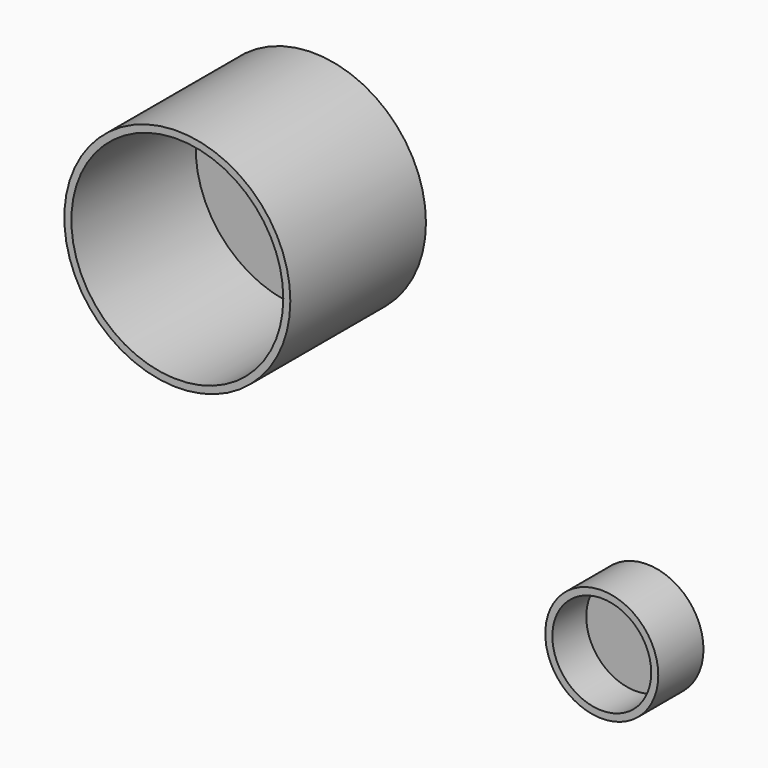
from build123d import *

# Parameters (mm, degrees)
F0_R     = 50.8
F0_R_2   = 47.625
F1_DEPTH = 76.2
F2_DEPTH = 6.35
F0_R_3   = 22.225
F3_DEPTH = 6.35
F0_R_4   = 25.4
F4_DEPTH = 25.4


with BuildPart() as f1:
    # F0 (on Front) → F1 (new body)
    with BuildSketch(Plane.XZ):
        with Locations((-84.817045, 68.405986)):
            Circle(F0_R)
        with Locations((-84.817045, 68.405986)):
            Circle(F0_R_2, mode=Mode.SUBTRACT)
    extrude(amount=F1_DEPTH)


with BuildPart() as f2:
    # F0 (on Front) → F2 (new body)
    with BuildSketch(Plane.XZ):
        with Locations((-84.817045, 68.405986)):
            Circle(F0_R_2)
    extrude(amount=F2_DEPTH)


with BuildPart() as f3:
    # F0 (on Front) → F3 (new body)
    with BuildSketch(Plane.XZ):
        with Locations((65.33419, -59.800068)):
            Circle(F0_R_3)
    extrude(amount=F3_DEPTH)


with BuildPart() as f4:
    # F0 (on Front) → F4 (new body)
    with BuildSketch(Plane.XZ):
        with Locations((65.33419, -59.800068)):
            Circle(F0_R_4)
        with Locations((65.33419, -59.800068)):
            Circle(F0_R_3, mode=Mode.SUBTRACT)
    extrude(amount=F4_DEPTH)


solid = Compound([f1.part, f2.part, f3.part, f4.part])
